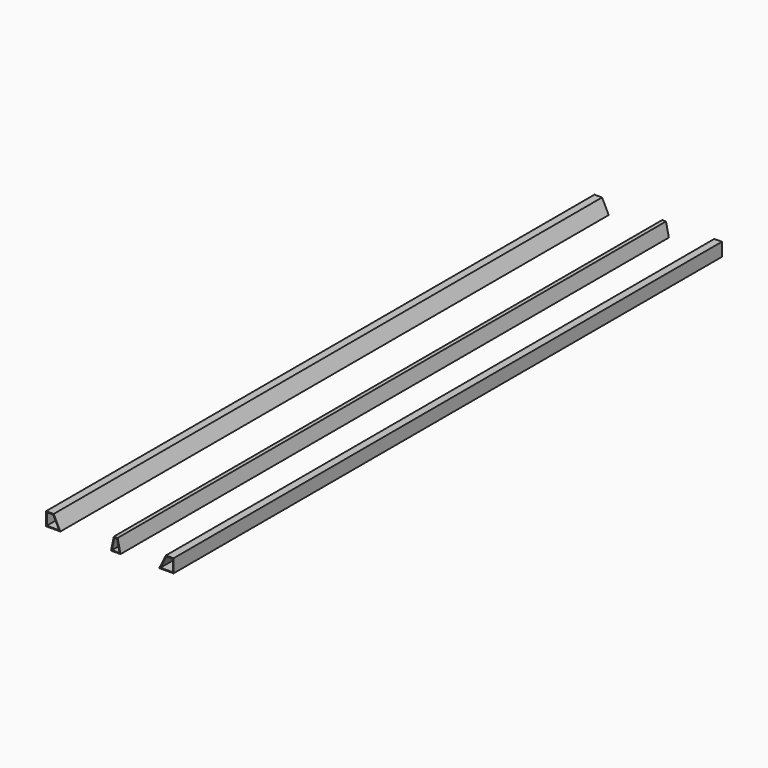
from build123d import *

# Parameters (mm, degrees)
F1_DEPTH = 2286
F2_T     = -2.54
F5_DEPTH = 2286
F6_T     = -2.54
F7_DEPTH = 2286
F8_T     = -2.54


with BuildPart() as f1:
    # F0 (on Front) → F1 (new body)
    with BuildSketch(Plane.XZ):
        Polygon((-177.910953, 24.129806), (-203.310953, 24.129806), (-203.310953, -20.320194), (-177.646502, -20.320194), (-155.634962, -20.320194), align=None)
    extrude(amount=F1_DEPTH)

    # F2
    f2_openings = [f1.faces().sort_by_distance(p)[0] for p in [
        (-184.476083, -2286, -0.3535),
        (-184.476083, 0, -0.3535),
    ]]
    offset(amount=F2_T, openings=f2_openings)


with BuildPart() as f5:
    # F3 (on Front) → F5 (new body)
    with BuildSketch(Plane.XZ):
        Polygon((22.656438, 23.061386), (13.131438, -21.388614), (44.881438, -21.388614), (35.356438, 23.061386), align=None)
    extrude(amount=F5_DEPTH)

    # F6
    f6_openings = [f5.faces().sort_by_distance(p)[0] for p in [
        (29.006438, 0, -2.338614),
        (29.006438, -2286, -2.338614),
    ]]
    offset(amount=F6_T, openings=f6_openings)


with BuildPart() as f7:
    # F4 (on Front) → F7 (new body)
    with BuildSketch(Plane.XZ):
        Polygon((221.82103, -20.347234), (221.82103, 24.102766), (196.42103, 24.102766), (174.145039, -20.347234), align=None)
    extrude(amount=F7_DEPTH)

    # F8
    f8_openings = [f7.faces().sort_by_distance(p)[0] for p in [
        (202.98616, -2286, -0.380541),
        (202.98616, 0, -0.380541),
    ]]
    offset(amount=F8_T, openings=f8_openings)


solid = Compound([f1.part, f5.part, f7.part])
